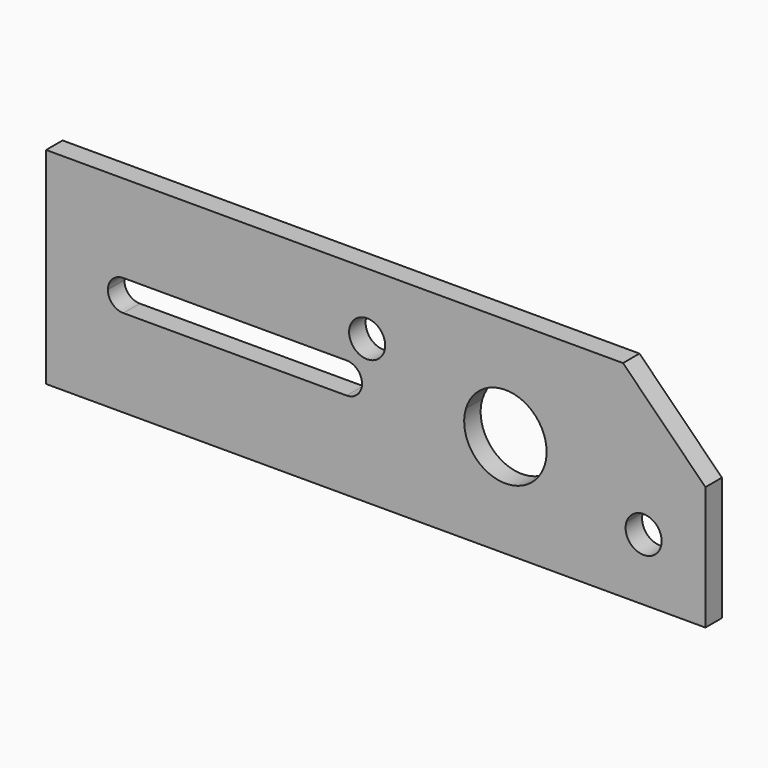
from build123d import *

# Parameters (mm, degrees)
F1_DEPTH = 6.35


with BuildPart() as f1:
    # F0 (on Front) → F1 (new body)
    with BuildSketch(Plane.XZ):
        Polygon((-101.6, -31.75), (101.6, -31.75), (101.6, 6.35), (76.2, 31.75), (-101.6, 31.75), align=None)
        with BuildLine():
            ThreePointArc((77.225286, -11.11276), (83.352019, -7.201939), (88.10625, -12.7))
            ThreePointArc((88.10625, -12.7), (81.747981, -18.198061), (77.225286, -11.11276))
        make_face(mode=Mode.SUBTRACT)
        with BuildLine():
            ThreePointArc((-82.541162, 0.290002), (-81.050955, 3.468612), (-77.7875, 4.7625))
            Line((-77.7875, 4.7625), (-8.989503, 4.7625))
            ThreePointArc((-8.989503, 4.7625), (-5.621907, 3.367596), (-4.227003, 0))
            ThreePointArc((-4.227003, 0), (-5.621907, -3.367596), (-8.989503, -4.7625))
            Line((-8.989503, -4.7625), (-77.7875, -4.7625))
            ThreePointArc((-77.7875, -4.7625), (-81.155096, -3.367596), (-82.55, 0))
            ThreePointArc((-82.55, 0), (-82.54779, 0.145068), (-82.541162, 0.290002))
        make_face(mode=Mode.SUBTRACT)
        with BuildLine():
            ThreePointArc((2.89687, 12.7), (2.838681, 11.897981), (2.665334, 11.11276))
            ThreePointArc((2.665334, 11.11276), (-8.157441, 13.502019), (2.89687, 12.7))
        make_face(mode=Mode.SUBTRACT)
        with BuildLine():
            ThreePointArc((52.64531, 0), (52.512307, -1.833187), (52.116086, -3.627977))
            ThreePointArc((52.116086, -3.627977), (36.317333, -12.170776), (27.774534, 3.627977))
            ThreePointArc((27.774534, 3.627977), (41.778497, 12.566997), (52.64531, 0))
        make_face(mode=Mode.SUBTRACT)
    extrude(amount=F1_DEPTH)


solid = f1.part
